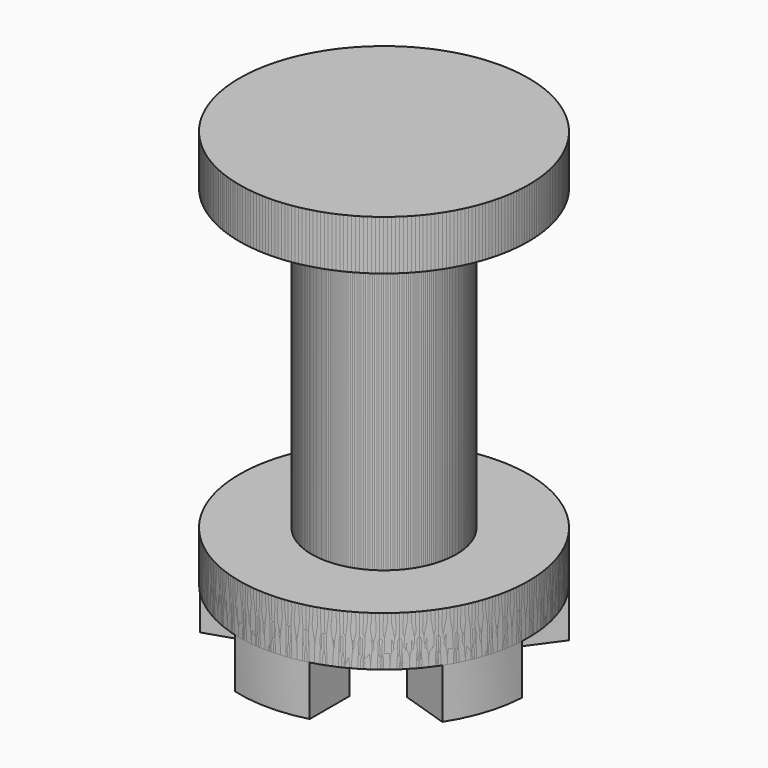
from build123d import *

# Parameters (mm, degrees)
F3_DEPTH = 10
F4_COUNT = 5


with BuildPart() as f1:
    # F0 (on Front) → F1 (revolve)
    with BuildSketch(Plane.XZ):
        Polygon((29, 23.735445), (0, 23.735445), (0, -56.264555), (29, -56.264555), (29, -46.264555), (14.5, -46.264555), (14.5, 13.735445), (29, 13.735445), align=None)
    revolve(axis=Axis((0, 0, -16.264555), (0, 0, 1)))

    # F2 (on face) → F3 (join)
    with BuildSketch(Plane(origin=(0, 0, -56.264555), x_dir=(1, 0, 0), z_dir=(0, 0, -1))):
        with BuildLine():
            ThreePointArc((7.5, 28.01339), (0, 29), (-7.5, 28.01339))
            Line((-7.5, 28.01339), (-7.5, 18.01339))
            Line((-7.5, 18.01339), (7.5, 18.01339))
            Line((7.5, 18.01339), (7.5, 28.01339))
        make_face()
    extrude(amount=F3_DEPTH)


with BuildPart() as f4_1:
    # F4: instance of F1
    add(f1.part.rotate(Axis((0, 0, -46.264555), (0, 0, 1)), 1 * 360 / F4_COUNT))


with BuildPart() as f4_2:
    # F4: instance of F1
    add(f1.part.rotate(Axis((0, 0, -46.264555), (0, 0, 1)), 2 * 360 / F4_COUNT))


with BuildPart() as f4_3:
    # F4: instance of F1
    add(f1.part.rotate(Axis((0, 0, -46.264555), (0, 0, 1)), 3 * 360 / F4_COUNT))


with BuildPart() as f4_4:
    # F4: instance of F1
    add(f1.part.rotate(Axis((0, 0, -46.264555), (0, 0, 1)), 4 * 360 / F4_COUNT))


solid = Compound([f1.part, f4_1.part, f4_2.part, f4_3.part, f4_4.part])
